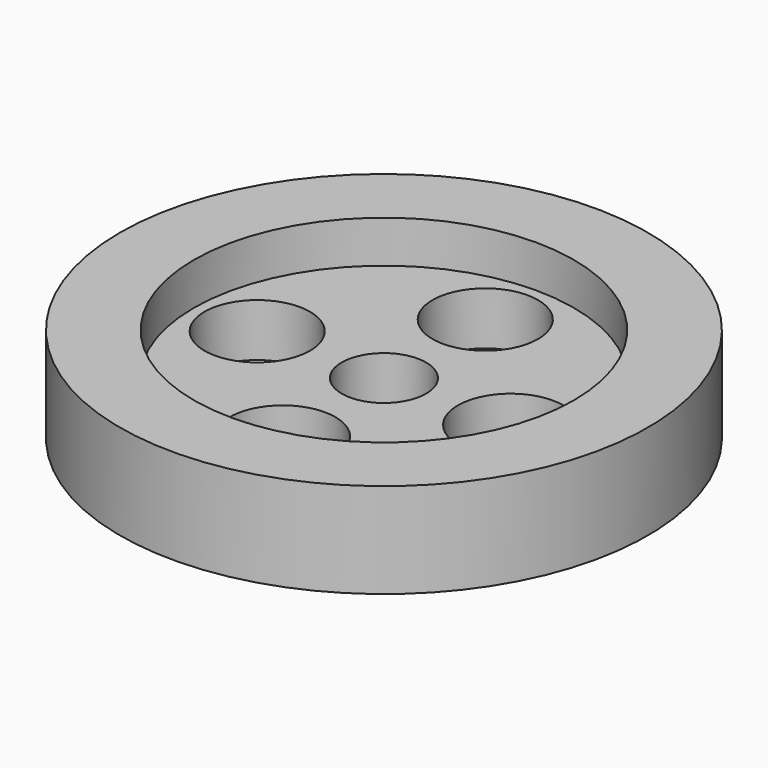
from build123d import *

# Parameters (mm, degrees)
F2_R     = 5
F3_DEPTH = 6.001


with BuildPart() as f1:
    # F0 (on Front) → F1 (revolve)
    with BuildSketch(Plane.XZ):
        Polygon((-6, -3.054788), (-4, -3.054788), (-4, 2.945212), (-18, 2.945212), (-18, 6.945212), (-25, 6.945212), (-25, -2.054788), (-6, -2.054788), align=None)
    revolve(axis=Axis((0, 0, 2.867277), (0, 0, -1)))

    # F2 (on face) → F3 (cut, through all)
    with BuildSketch(Plane.XY.offset(2.945212)):
        with Locations((-12, 0)):
            Circle(F2_R)
        with Locations((0, 12)):
            Circle(F2_R)
        with Locations((12, 0)):
            Circle(F2_R)
        with Locations((0, -12)):
            Circle(F2_R)
    extrude(amount=-F3_DEPTH, mode=Mode.SUBTRACT)


solid = f1.part
